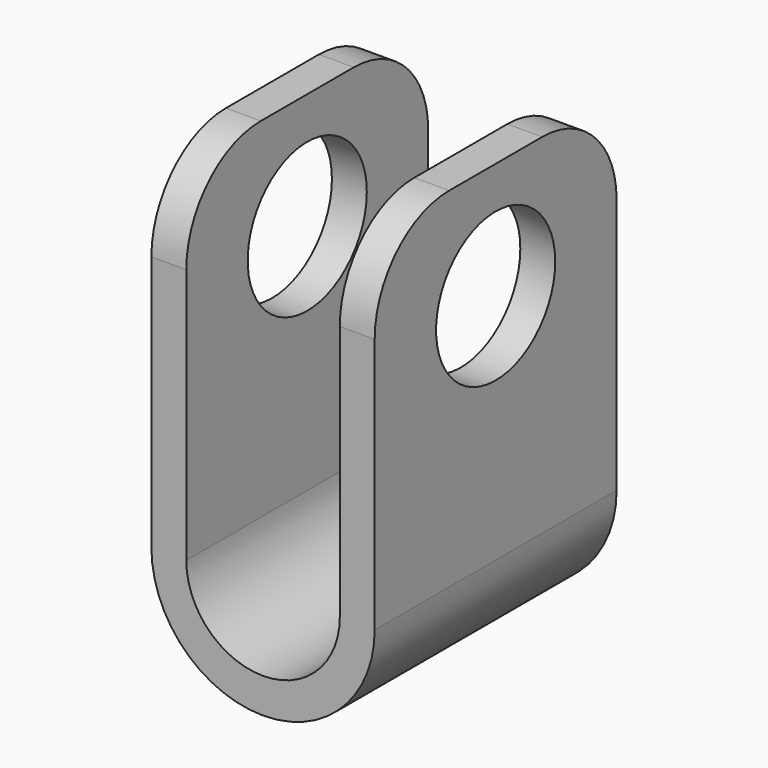
from build123d import *

# Parameters (mm, degrees)
F1_DEPTH      = 8.255
F2_R          = 5.08
F3_R          = 4.064
F4_DEPTH      = 6.097
F4_DEPTH_BACK = 6.097


with BuildPart() as f1:
    # F0 (on Front) → F1 (new body, symmetric)
    with BuildSketch(Plane.XZ):
        with BuildLine():
            ThreePointArc((4.191, 0), (0, -4.191), (-4.191, 0))
            Line((-4.191, 0), (-4.191, 19.05))
            Line((-4.191, 19.05), (-6.096, 19.05))
            Line((-6.096, 19.05), (-6.096, 0))
            ThreePointArc((-6.096, 0), (0, -6.096), (6.096, 0))
            Line((6.096, 0), (6.096, 19.05))
            Line((6.096, 19.05), (4.191, 19.05))
            Line((4.191, 19.05), (4.191, 0))
        make_face()
    extrude(amount=F1_DEPTH, both=True)

    # F2
    f2_edges = [f1.edges().sort_by_distance(p)[0] for p in [
        (5.1435, -8.255, 19.05),
        (5.1435, 8.255, 19.05),
        (-5.1435, 8.255, 19.05),
        (-5.1435, -8.255, 19.05),
    ]]
    fillet(f2_edges, radius=F2_R)

    # F3 (on Right) → F4 (cut, two sides)
    with BuildSketch(Plane.YZ) as f4_sk:
        with Locations((0, 12.7)):
            Circle(F3_R)
    extrude(amount=F4_DEPTH, mode=Mode.SUBTRACT)
    extrude(f4_sk.sketch, amount=-F4_DEPTH_BACK, mode=Mode.SUBTRACT)


solid = f1.part
